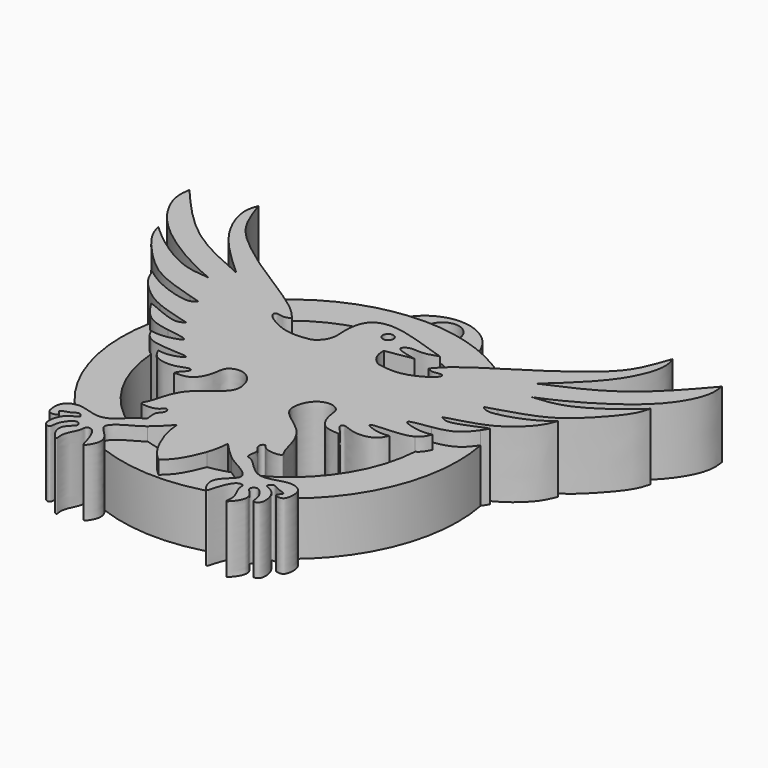
from build123d import *

# Parameters (mm, degrees)
F0_R     = 0.5
F1_DEPTH = 6.35
F2_DEPTH = 5.08
F0_R_2   = 1.5875
F3_DEPTH = 3.302


with BuildPart() as f1:
    # F0 (on Top) → F1 (new body)
    with BuildSketch(Plane.XY):
        with BuildLine():
            ThreePointArc((-2.2857759614, -12.6735372469), (-3.1434769531, -11.8683312788), (-3.3654761501, -10.7130287215))
            Line((-3.3654761501, -10.7130287215), (-0.8104138542, -10.283479467))
            add(Edge.make_bspline(
                [(0.437071285, -8.8088745251), (-0.0304486134, -8.9725956549), (-0.9338587692, -9.2889615077), (-2.1955246092, -9.0169819107), (-3.0587312339, -9.8238607214), (-1.691815012, -10.1032965008), (-0.8104138542, -10.283479467)],
                knots=[0, 0, 0, 0, 0.2683991506, 0.5186399966, 0.6896142883, 1, 1, 1, 1], degree=3))
            add(Edge.make_bspline(
                [(-7.6546338105, -10.7130287215), (-7.678919269, -10.3000748782), (-7.73034389, -9.4256423481), (-7.317687334, -7.6895897735), (-5.7206877323, -7.1193581807), (-3.5552078503, -7.4571101175), (-1.0412872964, -8.3083101998), (0.437071285, -8.8088745251)],
                knots=[0, 0, 0, 0, 0.159418547, 0.3375698413, 0.5060844369, 0.7095436011, 1, 1, 1, 1], degree=3))
            ThreePointArc((-7.6546338105, -10.7130287215), (-7.8766330075, -11.8683312788), (-8.7343339993, -12.6735372469))
            add(Edge.make_bspline(
                [(-8.7343339993, -12.6735372469), (-9.523806903, -12.8015469406), (-11.1190018081, -13.0602010506), (-13.7026507244, -11.5169474665), (-13.4301505365, -10.8678037859), (-12.6161443378, -11.1995299569), (-12.2039803521, -10.9779616436), (-12.0018484022, -10.8693009242)],
                knots=[0, 0, 0, 0, 0.2900366332, 0.5860428615, 0.690791346, 0.8483590262, 1, 1, 1, 1], degree=3))
            add(Edge.make_bspline(
                [(-12.0018484022, -10.8693009242), (-12.378793463, -10.4294114946), (-12.7557385238, -9.9895220649), (-13.4557536522, -9.4361696392)],
                knots=[0, 0, 0, 0, 0.1500645427, 0.1500645427, 0.1500645427, 0.1500645427], degree=3))
            add(Edge.make_bspline(
                [(-13.4557536522, -9.4361696392), (-14.1904575138, -8.8553962423), (-15.2810437796, -8.1496360768), (-16.3882084282, -7.4464541427)],
                knots=[0.1500645427, 0.1500645427, 0.1500645427, 0.1500645427, 0.3075654231, 0.3075654231, 0.3075654231, 0.3075654231], degree=3))
            add(Edge.make_bspline(
                [(-16.3882084282, -7.4464541427), (-17.077892257, -7.0084224469), (-19.2654638689, -5.6350365303), (-21.5789440731, -3.9350248583), (-24.1050318297, -1.7164703505), (-24.8613595922, 0.5278582132), (-25.2502131926, 1.6817431897)],
                knots=[0.3075654231, 0.3075654231, 0.3075654231, 0.3075654231, 0.4056771271, 0.6158848747, 0.8025134646, 1, 1, 1, 1], degree=3))
            add(Edge.make_bspline(
                [(-25.2502131926, 1.6817431897), (-25.3951067522, 1.280758379), (-25.7762631202, 0.2259294792), (-24.4048343462, -3.5815929315), (-21.4797801088, -6.2349320898), (-19.8152903186, -7.744803559)],
                knots=[0, 0, 0, 0, 0.2090437978, 0.5499097055, 1, 1, 1, 1], degree=3))
            add(Edge.make_bspline(
                [(-19.8152903186, -7.744803559), (-21.8933588466, -6.8484477058), (-26.1214371759, -5.0247047891), (-29.2812907107, -1.3563326534), (-30.8881001266, 0.5090623163)],
                knots=[0, 0, 0, 0, 0.4914924384, 1, 1, 1, 1], degree=3))
            add(Edge.make_bspline(
                [(-30.8881001266, 0.5090623163), (-30.9582758225, -0.011060264), (-31.1391395903, -1.3515717954), (-29.0066316357, -5.2234725146), (-23.6433019611, -8.5096249192), (-21.7021566887, -9.3308980701), (-20.9203157293, -9.6616847441)],
                knots=[0, 0, 0, 0, 0.1718152259, 0.4428192512, 0.7755826226, 1, 1, 1, 1], degree=3))
            add(Edge.make_bspline(
                [(-20.9203157293, -9.6616847441), (-21.8725033421, -9.5858744468), (-23.9432030209, -9.4210116025), (-27.4367987775, -6.9993841498), (-28.5230473459, -6.0104339662), (-28.9712184759, -5.6024068035)],
                knots=[0, 0, 0, 0, 0.3333619993, 0.7249543845, 1, 1, 1, 1], degree=3))
            add(Edge.make_bspline(
                [(-28.9712184759, -5.6024068035), (-28.854944572, -6.0433451161), (-28.5482463343, -7.2064178175), (-25.5894224246, -10.4657710421), (-23.4689854378, -11.774808669), (-21.2946618617, -12.4750234979), (-20.2032917813, -12.8044316157)],
                knots=[0, 0, 0, 0, 0.1774990931, 0.4681932683, 0.7070564422, 0.9264163461, 0.9264163461, 0.9264163461, 0.9264163461], degree=3))
            add(Edge.make_bspline(
                [(-20.2032917813, -12.8044316157), (-19.8371948015, -12.914930629), (-19.465417461, -13.0247772533), (-19.0936401205, -13.1346238777)],
                knots=[0.9264163461, 0.9264163461, 0.9264163461, 0.9264163461, 1, 1, 1, 1], degree=3))
            add(Edge.make_bspline(
                [(-19.0936401205, -13.1346238777), (-19.2767266143, -13.2974250771), (-19.5527899077, -13.5429015968), (-20.2207923001, -13.498321883), (-20.4722561106, -13.4584477894)],
                knots=[0, 0, 0, 0, 0.2141785411, 0.3229448128, 0.3229448128, 0.3229448128, 0.3229448128], degree=3))
            add(Edge.make_bspline(
                [(-20.4722561106, -13.4584477894), (-21.2064790204, -13.342023589), (-23.2531585306, -12.641976704), (-24.2924677427, -11.8884457299), (-24.8442850726, -11.4883612841)],
                knots=[0.3229448128, 0.3229448128, 0.3229448128, 0.3229448128, 0.6405200866, 1, 1, 1, 1], degree=3))
            add(Edge.make_bspline(
                [(-24.8442850726, -11.4883612841), (-24.6641466596, -11.9407389545), (-24.2425854891, -12.9993963344), (-22.5008813943, -14.5802847068), (-21.3766672087, -15.144950261), (-21.0535742526, -15.2834966503)],
                knots=[0, 0, 0, 0, 0.2103264926, 0.4922075251, 0.6062341379, 0.6062341379, 0.6062341379, 0.6062341379], degree=3))
            add(Edge.make_bspline(
                [(-21.0535742526, -15.2834966503), (-20.6399538048, -15.4608623853), (-19.5482951273, -15.8258074405), (-18.4587211621, -16.130537148), (-17.7808642511, -16.319426521)],
                knots=[0.6062341379, 0.6062341379, 0.6062341379, 0.6062341379, 0.7522098943, 0.992569197, 0.992569197, 0.992569197, 0.992569197], degree=3))
            add(Edge.make_bspline(
                [(-17.7808642511, -16.319426521), (-17.7599080362, -16.3252661108), (-17.7389518445, -16.3311050325), (-17.7179956527, -16.3369439542)],
                knots=[0.992569197, 0.992569197, 0.992569197, 0.992569197, 1, 1, 1, 1], degree=3))
            add(Edge.make_bspline(
                [(-17.7179956527, -16.3369439542), (-17.7448464273, -16.3569847976), (-17.7716972018, -16.377025641), (-17.7989335344, -16.39670501)],
                knots=[0, 0, 0, 0, 0.0360209732, 0.0360209732, 0.0360209732, 0.0360209732], degree=3))
            add(Edge.make_bspline(
                [(-17.7989335344, -16.39670501), (-17.9961329866, -16.5391897143), (-18.6076884656, -16.8866823644), (-20.5370613523, -15.9986742495), (-21.1616027185, -15.7365291878)],
                knots=[0.0360209732, 0.0360209732, 0.0360209732, 0.0360209732, 0.2968239348, 0.7696330417, 0.7696330417, 0.7696330417, 0.7696330417], degree=3))
            add(Edge.make_bspline(
                [(-21.1616027185, -15.7365291878), (-21.2325595307, -15.7067457677), (-21.5025934049, -15.5961906841), (-21.5942405015, -15.5814755039), (-21.6645169722, -15.5701916665)],
                knots=[0.7696330417, 0.7696330417, 0.7696330417, 0.7696330417, 0.8233509038, 1, 1, 1, 1], degree=3))
            add(Edge.make_bspline(
                [(-21.6645169722, -15.5701916665), (-21.5307460559, -15.781550535), (-21.3969751397, -15.9929094034), (-21.2574051259, -16.197568195)],
                knots=[0, 0, 0, 0, 0.0811491852, 0.0811491852, 0.0811491852, 0.0811491852], degree=3))
            add(Edge.make_bspline(
                [(-21.2574051259, -16.197568195), (-21.0903565591, -16.4425202224), (-20.5664062179, -17.1457404661), (-19.7005933386, -17.794862753), (-18.4278203745, -18.035521294), (-18.0699930633, -18.0942967463)],
                knots=[0.0811491852, 0.0811491852, 0.0811491852, 0.0811491852, 0.1782750271, 0.37135395, 0.4469510907, 0.4469510907, 0.4469510907, 0.4469510907], degree=3))
            add(Edge.make_bspline(
                [(-18.0699930633, -18.0942967463), (-17.3051094591, -18.2199338298), (-16.2475111106, -18.3373842463), (-16.0600153336, -18.7342471162), (-17.336818529, -19.0818313631), (-17.9973230472, -19.1069249957), (-18.1205621915, -19.1049129059)],
                knots=[0.4469510907, 0.4469510907, 0.4469510907, 0.4469510907, 0.6085458368, 0.6707768146, 0.8473068215, 0.8917611023, 0.8917611023, 0.8917611023, 0.8917611023], degree=3))
            add(Edge.make_bspline(
                [(-18.1205621915, -19.1049129059), (-18.4206293367, -19.1000137965), (-18.6635987428, -19.0532597025), (-18.9065681489, -19.0065056086)],
                knots=[0.8917611023, 0.8917611023, 0.8917611023, 0.8917611023, 1, 1, 1, 1], degree=3))
            add(Edge.make_bspline(
                [(-18.9065681489, -19.0065056086), (-18.7267973223, -19.3972528253), (-18.5470264958, -19.788000042), (-18.0945699953, -20.0480963886)],
                knots=[0, 0, 0, 0, 0.1881334538, 0.1881334538, 0.1881334538, 0.1881334538], degree=3))
            add(Edge.make_bspline(
                [(-18.0945699953, -20.0480963886), (-18.0295818868, -20.0854550509), (-17.1249172164, -20.5295411587), (-14.644944582, -20.4512885989), (-14.0852232538, -20.7349595785), (-15.391551368, -21.2976153213), (-16.1341709579, -21.204235051), (-16.5157229358, -21.1562570184)],
                knots=[0.1881334538, 0.1881334538, 0.1881334538, 0.1881334538, 0.2151558025, 0.5343286979, 0.6260254886, 0.8078549011, 1, 1, 1, 1], degree=3))
            add(Edge.make_bspline(
                [(-16.5157229358, -21.1562570184), (-16.3707933692, -21.4851799652), (-16.035296023, -22.2466034501), (-14.0628085338, -22.5561192091), (-12.83437652, -21.785508268), (-12.5342148918, -22.3008449601), (-13.3117713794, -22.9104627246), (-13.3332998325, -23.1547195494), (-13.3413218146, -23.245735094)],
                knots=[0, 0, 0, 0, 0.185946959, 0.4304484772, 0.6321402353, 0.7295307591, 0.8992171242, 1, 1, 1, 1], degree=3))
            add(Edge.make_bspline(
                [(-13.3413218146, -23.245735094), (-12.7817317833, -23.221719513), (-11.6391145201, -23.1726825112), (-10.9207680036, -21.4013685472), (-10.9502024782, -20.2244522086), (-9.7961964097, -19.7245897463), (-8.6197815564, -20.2311510164), (-8.0360034049, -21.4105320524), (-7.9687643162, -22.6915176065), (-9.2662759802, -23.726279067), (-10.7083172032, -24.7480185877), (-11.5534571901, -26.265971769), (-11.8637383139, -27.949468015), (-12.4298922722, -28.6176221137), (-11.4141566911, -28.7490024147), (-10.5349912392, -28.5490819312), (-10.2964419935, -28.0128222303), (-9.9322528984, -28.2045391332), (-9.9233884279, -28.768970853), (-10.5764993982, -29.1306793904), (-10.1466395686, -30.4521176981), (-10.6213197783, -30.3900197466), (-10.8998241443, -30.5733072486), (-10.9471807688, -30.6081848495)],
                knots=[0, 0, 0, 0, 0.0236094388, 0.0482077071, 0.0679629707, 0.0869600144, 0.1074089495, 0.1286108469, 0.1487863439, 0.1722404159, 0.1974049154, 0.2222443341, 0.2471732469, 0.2612787619, 0.2775857533, 0.2958693788, 0.3085771959, 0.3183624297, 0.3311744342, 0.3463925393, 0.3656586898, 0.3792655185, 0.3819449347, 0.3819449347, 0.3819449347, 0.3819449347], degree=3))
            add(Edge.make_bspline(
                [(-10.9471807688, -30.6081848495), (-11.4219596487, -30.95785395), (-12.6585880492, -32.5779503507), (-14.4386598565, -31.9746486666), (-15.2280025892, -31.7764376207), (-15.5099636958, -31.7661897237)],
                knots=[0.3819449347, 0.3819449347, 0.3819449347, 0.3819449347, 0.4088077072, 0.4347350851, 0.4498735847, 0.4498735847, 0.4498735847, 0.4498735847], degree=3))
            add(Edge.make_bspline(
                [(-15.5099636958, -31.7661897237), (-15.6182824946, -31.762252869), (-16.0812938557, -31.7853379311), (-16.9225442481, -32.2139544549), (-16.9364405644, -33.4145530365), (-16.6757448822, -34.1764938577), (-15.5611074288, -33.8991616611), (-16.5508193954, -33.2829982362), (-15.2657891733, -33.0919139581), (-14.8317825224, -32.5549985597), (-14.1236292767, -33.2648050052), (-15.5779052296, -33.385554528), (-16.0893119325, -35.6001299999), (-15.0395035977, -35.8825501242), (-15.2423088232, -34.9230641851), (-14.1481091617, -33.5340795776), (-13.5276273942, -34.3387647954), (-14.1404352433, -34.7200169984), (-14.8324358777, -35.7657245737), (-13.3527732567, -37.4097100905), (-13.8462453432, -36.0865404592), (-12.9242296365, -34.7793299215), (-13.0996239648, -34.1125499461), (-12.140006055, -34.0262863664), (-11.5429591559, -36.014067957), (-11.372600989, -36.7692739428), (-10.4234042113, -35.2654395059), (-10.9545225827, -34.5003144749), (-11.2149308367, -34.216840868)],
                knots=[0.4498735847, 0.4498735847, 0.4498735847, 0.4498735847, 0.455689224, 0.4750420423, 0.4949340879, 0.5105416302, 0.525719827, 0.5393619063, 0.5571394956, 0.5724150658, 0.585707918, 0.604584957, 0.6306002854, 0.6445619744, 0.6610471938, 0.6837547819, 0.6976027913, 0.7120402423, 0.7322528655, 0.7545088848, 0.770313615, 0.7944950806, 0.807984117, 0.8221383021, 0.8491797379, 0.8613023483, 0.8834735617, 0.8998932588, 0.8998932588, 0.8998932588, 0.8998932588], degree=3))
            add(Edge.make_bspline(
                [(-11.2149308367, -34.216840868), (-11.3333000107, -34.0879872844), (-11.7552776721, -33.6839061793), (-12.3157576791, -33.0556691665), (-10.9509936942, -32.0074263245), (-10.0543815647, -31.6174208495), (-9.5488695866, -31.2304972613), (-9.5008021164, -31.192382587)],
                knots=[0.8998932588, 0.8998932588, 0.8998932588, 0.8998932588, 0.9073568701, 0.9249921928, 0.9471020495, 0.9709672009, 0.9734664562, 0.9734664562, 0.9734664562, 0.9734664562], degree=3))
            add(Edge.make_bspline(
                [(-9.5008021164, -31.192382587), (-8.9904899888, -30.7877351101), (-8.4636466759, -30.2212735889), (-7.9368033631, -29.6548120677)],
                knots=[0.9734664562, 0.9734664562, 0.9734664562, 0.9734664562, 1, 1, 1, 1], degree=3))
            add(Edge.make_bspline(
                [(-7.9368033631, -29.6548120677), (-7.8923029904, -30.1408310724), (-7.8377457627, -30.7366878692), (-7.5912715802, -31.5266561258), (-7.5403781129, -31.6759556716)],
                knots=[0, 0, 0, 0, 0.3040677362, 0.3727854787, 0.3727854787, 0.3727854787, 0.3727854787], degree=3))
            add(Edge.make_bspline(
                [(-7.5403781129, -31.6759556716), (-7.2967189276, -32.3907469324), (-6.5936240616, -33.914277021), (-5.8592330439, -34.5814048009), (-5.5100549803, -34.8986014724)],
                knots=[0.3727854787, 0.3727854787, 0.3727854787, 0.3727854787, 0.7017807316, 1, 1, 1, 1], degree=3))
            add(Edge.make_bspline(
                [(-3.4797318477, -31.6759556716), (-3.723391033, -32.3907469324), (-4.426485899, -33.914277021), (-5.1608769167, -34.5814048009), (-5.5100549803, -34.8986014724)],
                knots=[0.3727854787, 0.3727854787, 0.3727854787, 0.3727854787, 0.7017807316, 1, 1, 1, 1], degree=3))
            add(Edge.make_bspline(
                [(-3.0833065975, -29.6548120677), (-3.1278069702, -30.1408310724), (-3.1823641979, -30.7366878692), (-3.4288383804, -31.5266561258), (-3.4797318477, -31.6759556716)],
                knots=[0, 0, 0, 0, 0.3040677362, 0.3727854787, 0.3727854787, 0.3727854787, 0.3727854787], degree=3))
            add(Edge.make_bspline(
                [(-1.5193078443, -31.192382587), (-2.0296199718, -30.7877351101), (-2.5564632847, -30.2212735889), (-3.0833065975, -29.6548120677)],
                knots=[0.9734664562, 0.9734664562, 0.9734664562, 0.9734664562, 1, 1, 1, 1], degree=3))
            add(Edge.make_bspline(
                [(0.1948208761, -34.216840868), (0.3131900501, -34.0879872844), (0.7351677115, -33.6839061793), (1.2956477185, -33.0556691665), (-0.0691162664, -32.0074263245), (-0.9657283959, -31.6174208495), (-1.471240374, -31.2304972613), (-1.5193078443, -31.192382587)],
                knots=[0.8998932588, 0.8998932588, 0.8998932588, 0.8998932588, 0.9073568701, 0.9249921928, 0.9471020495, 0.9709672009, 0.9734664562, 0.9734664562, 0.9734664562, 0.9734664562], degree=3))
            add(Edge.make_bspline(
                [(4.4898537351, -31.7661897237), (4.5981725339, -31.762252869), (5.0611838951, -31.7853379311), (5.9024342875, -32.2139544549), (5.9163306038, -33.4145530365), (5.6556349216, -34.1764938577), (4.5409974682, -33.8991616611), (5.5307094348, -33.2829982362), (4.2456792127, -33.0919139581), (3.8116725618, -32.5549985597), (3.1035193161, -33.2648050052), (4.557795269, -33.385554528), (5.0692019719, -35.6001299999), (4.0193936371, -35.8825501242), (4.2221988626, -34.9230641851), (3.1279992011, -33.5340795776), (2.5075174336, -34.3387647954), (3.1203252827, -34.7200169984), (3.8123259171, -35.7657245737), (2.3326632961, -37.4097100905), (2.8261353826, -36.0865404592), (1.9041196759, -34.7793299215), (2.0795140042, -34.1125499461), (1.1198960944, -34.0262863664), (0.5228491953, -36.014067957), (0.3524910284, -36.7692739428), (-0.5967057493, -35.2654395059), (-0.0655873779, -34.5003144749), (0.1948208761, -34.216840868)],
                knots=[0.4498735847, 0.4498735847, 0.4498735847, 0.4498735847, 0.455689224, 0.4750420423, 0.4949340879, 0.5105416302, 0.525719827, 0.5393619063, 0.5571394956, 0.5724150658, 0.585707918, 0.604584957, 0.6306002854, 0.6445619744, 0.6610471938, 0.6837547819, 0.6976027913, 0.7120402423, 0.7322528655, 0.7545088848, 0.770313615, 0.7944950806, 0.807984117, 0.8221383021, 0.8491797379, 0.8613023483, 0.8834735617, 0.8998932588, 0.8998932588, 0.8998932588, 0.8998932588], degree=3))
            add(Edge.make_bspline(
                [(-0.0729291918, -30.6081848495), (0.4018496881, -30.95785395), (1.6384780886, -32.5779503507), (3.4185498959, -31.9746486666), (4.2078926286, -31.7764376207), (4.4898537351, -31.7661897237)],
                knots=[0.3819449347, 0.3819449347, 0.3819449347, 0.3819449347, 0.4088077072, 0.4347350851, 0.4498735847, 0.4498735847, 0.4498735847, 0.4498735847], degree=3))
            add(Edge.make_bspline(
                [(2.321211854, -23.245735094), (1.7616218227, -23.221719513), (0.6190045595, -23.1726825112), (-0.099341957, -21.4013685472), (-0.0699074824, -20.2244522086), (-1.2239135509, -19.7245897463), (-2.4003284042, -20.2311510164), (-2.9841065557, -21.4105320524), (-3.0513456444, -22.6915176065), (-1.7538339805, -23.726279067), (-0.3117927574, -24.7480185877), (0.5333472295, -26.265971769), (0.8436283533, -27.949468015), (1.4097823116, -28.6176221137), (0.3940467305, -28.7490024147), (-0.4851187214, -28.5490819312), (-0.7236679671, -28.0128222303), (-1.0878570623, -28.2045391332), (-1.0967215327, -28.768970853), (-0.4436105624, -29.1306793904), (-0.873470392, -30.4521176981), (-0.3987901823, -30.3900197466), (-0.1202858163, -30.5733072486), (-0.0729291918, -30.6081848495)],
                knots=[0, 0, 0, 0, 0.0236094388, 0.0482077071, 0.0679629707, 0.0869600144, 0.1074089495, 0.1286108469, 0.1487863439, 0.1722404159, 0.1974049154, 0.2222443341, 0.2471732469, 0.2612787619, 0.2775857533, 0.2958693788, 0.3085771959, 0.3183624297, 0.3311744342, 0.3463925393, 0.3656586898, 0.3792655185, 0.3819449347, 0.3819449347, 0.3819449347, 0.3819449347], degree=3))
            add(Edge.make_bspline(
                [(5.4956129752, -21.1562570184), (5.3506834085, -21.4851799652), (5.0151860624, -22.2466034501), (3.0426985732, -22.5561192091), (1.8142665593, -21.785508268), (1.5141049312, -22.3008449601), (2.2916614187, -22.9104627246), (2.3131898719, -23.1547195494), (2.321211854, -23.245735094)],
                knots=[0, 0, 0, 0, 0.185946959, 0.4304484772, 0.6321402353, 0.7295307591, 0.8992171242, 1, 1, 1, 1], degree=3))
            add(Edge.make_bspline(
                [(7.0744600347, -20.0480963886), (7.0094719262, -20.0854550509), (6.1048072558, -20.5295411587), (3.6248346214, -20.4512885989), (3.0651132932, -20.7349595785), (4.3714414074, -21.2976153213), (5.1140609973, -21.204235051), (5.4956129752, -21.1562570184)],
                knots=[0.1881334538, 0.1881334538, 0.1881334538, 0.1881334538, 0.2151558025, 0.5343286979, 0.6260254886, 0.8078549011, 1, 1, 1, 1], degree=3))
            add(Edge.make_bspline(
                [(7.8864581883, -19.0065056086), (7.7066873617, -19.3972528253), (7.5269165352, -19.788000042), (7.0744600347, -20.0480963886)],
                knots=[0, 0, 0, 0, 0.1881334538, 0.1881334538, 0.1881334538, 0.1881334538], degree=3))
            add(Edge.make_bspline(
                [(7.1004522309, -19.1049129059), (7.4005193761, -19.1000137965), (7.6434887822, -19.0532597025), (7.8864581883, -19.0065056086)],
                knots=[0.8917611023, 0.8917611023, 0.8917611023, 0.8917611023, 1, 1, 1, 1], degree=3))
            add(Edge.make_bspline(
                [(7.0498831027, -18.0942967463), (6.2849994985, -18.2199338298), (5.22740115, -18.3373842463), (5.039905373, -18.7342471162), (6.3167085684, -19.0818313631), (6.9772130866, -19.1069249957), (7.1004522309, -19.1049129059)],
                knots=[0.4469510907, 0.4469510907, 0.4469510907, 0.4469510907, 0.6085458368, 0.6707768146, 0.8473068215, 0.8917611023, 0.8917611023, 0.8917611023, 0.8917611023], degree=3))
            add(Edge.make_bspline(
                [(10.2372951653, -16.197568195), (10.0702465985, -16.4425202224), (9.5462962573, -17.1457404661), (8.680483378, -17.794862753), (7.4077104139, -18.035521294), (7.0498831027, -18.0942967463)],
                knots=[0.0811491852, 0.0811491852, 0.0811491852, 0.0811491852, 0.1782750271, 0.37135395, 0.4469510907, 0.4469510907, 0.4469510907, 0.4469510907], degree=3))
            add(Edge.make_bspline(
                [(10.6444070116, -15.5701916665), (10.5106360953, -15.781550535), (10.3768651791, -15.9929094034), (10.2372951653, -16.197568195)],
                knots=[0, 0, 0, 0, 0.0811491852, 0.0811491852, 0.0811491852, 0.0811491852], degree=3))
            add(Edge.make_bspline(
                [(10.1414927579, -15.7365291878), (10.21244957, -15.7067457677), (10.4824834443, -15.5961906841), (10.5741305409, -15.5814755039), (10.6444070116, -15.5701916665)],
                knots=[0.7696330417, 0.7696330417, 0.7696330417, 0.7696330417, 0.8233509038, 1, 1, 1, 1], degree=3))
            add(Edge.make_bspline(
                [(6.7788235738, -16.39670501), (6.976023026, -16.5391897143), (7.587578505, -16.8866823644), (9.5169513917, -15.9986742495), (10.1414927579, -15.7365291878)],
                knots=[0.0360209732, 0.0360209732, 0.0360209732, 0.0360209732, 0.2968239348, 0.7696330417, 0.7696330417, 0.7696330417, 0.7696330417], degree=3))
            add(Edge.make_bspline(
                [(6.6978856921, -16.3369439542), (6.7247364667, -16.3569847976), (6.7515872412, -16.377025641), (6.7788235738, -16.39670501)],
                knots=[0, 0, 0, 0, 0.0360209732, 0.0360209732, 0.0360209732, 0.0360209732], degree=3))
            add(Edge.make_bspline(
                [(6.7607542905, -16.319426521), (6.7397980756, -16.3252661108), (6.7188418839, -16.3311050325), (6.6978856921, -16.3369439542)],
                knots=[0.992569197, 0.992569197, 0.992569197, 0.992569197, 1, 1, 1, 1], degree=3))
            add(Edge.make_bspline(
                [(10.033464292, -15.2834966503), (9.6198438441, -15.4608623853), (8.5281851667, -15.8258074405), (7.4386112015, -16.130537148), (6.7607542905, -16.319426521)],
                knots=[0.6062341379, 0.6062341379, 0.6062341379, 0.6062341379, 0.7522098943, 0.992569197, 0.992569197, 0.992569197, 0.992569197], degree=3))
            add(Edge.make_bspline(
                [(13.8241751119, -11.4883612841), (13.644036699, -11.9407389545), (13.2224755285, -12.9993963344), (11.4807714337, -14.5802847068), (10.3565572481, -15.144950261), (10.033464292, -15.2834966503)],
                knots=[0, 0, 0, 0, 0.2103264926, 0.4922075251, 0.6062341379, 0.6062341379, 0.6062341379, 0.6062341379], degree=3))
            add(Edge.make_bspline(
                [(9.45214615, -13.4584477894), (10.1863690598, -13.342023589), (12.23304857, -12.641976704), (13.2723577821, -11.8884457299), (13.8241751119, -11.4883612841)],
                knots=[0.3229448128, 0.3229448128, 0.3229448128, 0.3229448128, 0.6405200866, 1, 1, 1, 1], degree=3))
            add(Edge.make_bspline(
                [(8.0735301599, -13.1346238777), (8.2566166536, -13.2974250771), (8.5326799471, -13.5429015968), (9.2006823395, -13.498321883), (9.45214615, -13.4584477894)],
                knots=[0, 0, 0, 0, 0.2141785411, 0.3229448128, 0.3229448128, 0.3229448128, 0.3229448128], degree=3))
            add(Edge.make_bspline(
                [(9.1831818206, -12.8044316157), (8.8170848409, -12.914930629), (8.4453075004, -13.0247772533), (8.0735301599, -13.1346238777)],
                knots=[0.9264163461, 0.9264163461, 0.9264163461, 0.9264163461, 1, 1, 1, 1], degree=3))
            add(Edge.make_bspline(
                [(17.9511085153, -5.6024068035), (17.8348346114, -6.0433451161), (17.5281363737, -7.2064178175), (14.569312464, -10.4657710421), (12.4488754772, -11.774808669), (10.2745519011, -12.4750234979), (9.1831818206, -12.8044316157)],
                knots=[0, 0, 0, 0, 0.1774990931, 0.4681932683, 0.7070564422, 0.9264163461, 0.9264163461, 0.9264163461, 0.9264163461], degree=3))
            add(Edge.make_bspline(
                [(9.9002057686, -9.6616847441), (10.8523933815, -9.5858744468), (12.9230930603, -9.4210116025), (16.4166888169, -6.9993841498), (17.5029373853, -6.0104339662), (17.9511085153, -5.6024068035)],
                knots=[0, 0, 0, 0, 0.3333619993, 0.7249543845, 1, 1, 1, 1], degree=3))
            add(Edge.make_bspline(
                [(19.8679901659, 0.5090623163), (19.9381658619, -0.011060264), (20.1190296297, -1.3515717954), (17.9865216751, -5.2234725146), (12.6231920004, -8.5096249192), (10.6820467281, -9.3308980701), (9.9002057686, -9.6616847441)],
                knots=[0, 0, 0, 0, 0.1718152259, 0.4428192512, 0.7755826226, 1, 1, 1, 1], degree=3))
            add(Edge.make_bspline(
                [(8.795180358, -7.744803559), (10.873248886, -6.8484477058), (15.1013272153, -5.0247047891), (18.2611807501, -1.3563326534), (19.8679901659, 0.5090623163)],
                knots=[0, 0, 0, 0, 0.4914924384, 1, 1, 1, 1], degree=3))
            add(Edge.make_bspline(
                [(14.230103232, 1.6817431897), (14.3749967916, 1.280758379), (14.7561531596, 0.2259294792), (13.3847243856, -3.5815929315), (10.4596701482, -6.2349320898), (8.795180358, -7.744803559)],
                knots=[0, 0, 0, 0, 0.2090437978, 0.5499097055, 1, 1, 1, 1], degree=3))
            add(Edge.make_bspline(
                [(5.3680984676, -7.4464541427), (6.0577822964, -7.0084224469), (8.2453539083, -5.6350365303), (10.5588341125, -3.9350248583), (13.0849218691, -1.7164703505), (13.8412496316, 0.5278582132), (14.230103232, 1.6817431897)],
                knots=[0.3075654231, 0.3075654231, 0.3075654231, 0.3075654231, 0.4056771271, 0.6158848747, 0.8025134646, 1, 1, 1, 1], degree=3))
            add(Edge.make_bspline(
                [(2.4356436916, -9.4361696392), (3.1703475532, -8.8553962423), (4.260933819, -8.1496360768), (5.3680984676, -7.4464541427)],
                knots=[0.1500645427, 0.1500645427, 0.1500645427, 0.1500645427, 0.3075654231, 0.3075654231, 0.3075654231, 0.3075654231], degree=3))
            add(Edge.make_bspline(
                [(0.9817384416, -10.8693009242), (1.3586835024, -10.4294114946), (1.7356285632, -9.9895220649), (2.4356436916, -9.4361696392)],
                knots=[0, 0, 0, 0, 0.1500645427, 0.1500645427, 0.1500645427, 0.1500645427], degree=3))
            add(Edge.make_bspline(
                [(-2.2857759614, -12.6735372469), (-1.4963030576, -12.8015469406), (0.0988918475, -13.0602010506), (2.6825407638, -11.5169474665), (2.4100405759, -10.8678037859), (1.5960343772, -11.1995299569), (1.1838703915, -10.9779616436), (0.9817384416, -10.8693009242)],
                knots=[0, 0, 0, 0, 0.2900366332, 0.5860428615, 0.690791346, 0.8483590262, 1, 1, 1, 1], degree=3))
        make_face()
        with Locations((-4.5117270201, -8.7848948315)):
            Circle(F0_R, mode=Mode.SUBTRACT)
    extrude(amount=F1_DEPTH)

    # F0 (on Top) → F2 (join)
    with BuildSketch(Plane.XY):
        with BuildLine():
            ThreePointArc((-13.4557536522, -9.4361696392), (-5.5100549803, -6.6182220763), (2.4356436916, -9.4361696392))
            add(Edge.make_bspline(
                [(2.4356436916, -9.4361696392), (3.1703475532, -8.8553962423), (4.260933819, -8.1496360768), (5.3680984676, -7.4464541427)],
                knots=[0.1500645427, 0.1500645427, 0.1500645427, 0.1500645427, 0.3075654231, 0.3075654231, 0.3075654231, 0.3075654231], degree=3))
            ThreePointArc((5.3680984676, -7.4464541427), (2.2866058164, -5.2156792405), (-1.2336339985, -3.7735054406))
            ThreePointArc((-1.2336339985, -3.7735054406), (-5.5100549803, -3.1928006392), (-9.7864759621, -3.7735054406))
            ThreePointArc((-9.7864759621, -3.7735054406), (-13.306715777, -5.2156792405), (-16.3882084282, -7.4464541427))
            add(Edge.make_bspline(
                [(-13.4557536522, -9.4361696392), (-14.1904575138, -8.8553962423), (-15.2810437796, -8.1496360768), (-16.3882084282, -7.4464541427)],
                knots=[0.1500645427, 0.1500645427, 0.1500645427, 0.1500645427, 0.3075654231, 0.3075654231, 0.3075654231, 0.3075654231], degree=3))
        make_face()
        with BuildLine():
            add(Edge.make_bspline(
                [(-21.2574051259, -16.197568195), (-21.0903565591, -16.4425202224), (-20.5664062179, -17.1457404661), (-19.7005933386, -17.794862753), (-18.4278203745, -18.035521294), (-18.0699930633, -18.0942967463)],
                knots=[0.0811491852, 0.0811491852, 0.0811491852, 0.0811491852, 0.1782750271, 0.37135395, 0.4469510907, 0.4469510907, 0.4469510907, 0.4469510907], degree=3))
            ThreePointArc((-21.2574051259, -16.197568195), (-20.5541843599, -24.78315872), (-15.5099636958, -31.7661897237))
            add(Edge.make_bspline(
                [(-10.9471807688, -30.6081848495), (-11.4219596487, -30.95785395), (-12.6585880492, -32.5779503507), (-14.4386598565, -31.9746486666), (-15.2280025892, -31.7764376207), (-15.5099636958, -31.7661897237)],
                knots=[0.3819449347, 0.3819449347, 0.3819449347, 0.3819449347, 0.4088077072, 0.4347350851, 0.4498735847, 0.4498735847, 0.4498735847, 0.4498735847], degree=3))
            ThreePointArc((-10.9471807688, -30.6081848495), (-15.9538929429, -26.2980505126), (-18.0945699953, -20.0480963886))
            add(Edge.make_bspline(
                [(-18.9065681489, -19.0065056086), (-18.7267973223, -19.3972528253), (-18.5470264958, -19.788000042), (-18.0945699953, -20.0480963886)],
                knots=[0, 0, 0, 0, 0.1881334538, 0.1881334538, 0.1881334538, 0.1881334538], degree=3))
            add(Edge.make_bspline(
                [(-18.1205621915, -19.1049129059), (-18.4206293367, -19.1000137965), (-18.6635987428, -19.0532597025), (-18.9065681489, -19.0065056086)],
                knots=[0.8917611023, 0.8917611023, 0.8917611023, 0.8917611023, 1, 1, 1, 1], degree=3))
            ThreePointArc((-18.1205621915, -19.1049129059), (-18.1054178306, -18.5990974315), (-18.0699930633, -18.0942967463))
        make_face()
        with BuildLine():
            add(Edge.make_bspline(
                [(-21.0535742526, -15.2834966503), (-20.6399538048, -15.4608623853), (-19.5482951273, -15.8258074405), (-18.4587211621, -16.130537148), (-17.7808642511, -16.319426521)],
                knots=[0.6062341379, 0.6062341379, 0.6062341379, 0.6062341379, 0.7522098943, 0.992569197, 0.992569197, 0.992569197, 0.992569197], degree=3))
            ThreePointArc((-21.0535742526, -15.2834966503), (-21.109233198, -15.509620727), (-21.1616027185, -15.7365291878))
            add(Edge.make_bspline(
                [(-17.7989335344, -16.39670501), (-17.9961329866, -16.5391897143), (-18.6076884656, -16.8866823644), (-20.5370613523, -15.9986742495), (-21.1616027185, -15.7365291878)],
                knots=[0.0360209732, 0.0360209732, 0.0360209732, 0.0360209732, 0.2968239348, 0.7696330417, 0.7696330417, 0.7696330417, 0.7696330417], degree=3))
            ThreePointArc((-17.7989335344, -16.39670501), (-17.7899596829, -16.3580515515), (-17.7808642511, -16.319426521))
        make_face()
        with BuildLine():
            add(Edge.make_bspline(
                [(-20.2032917813, -12.8044316157), (-19.8371948015, -12.914930629), (-19.465417461, -13.0247772533), (-19.0936401205, -13.1346238777)],
                knots=[0.9264163461, 0.9264163461, 0.9264163461, 0.9264163461, 1, 1, 1, 1], degree=3))
            ThreePointArc((-20.2032917813, -12.8044316157), (-20.341379399, -13.129956959), (-20.4722561106, -13.4584477894))
            add(Edge.make_bspline(
                [(-19.0936401205, -13.1346238777), (-19.2767266143, -13.2974250771), (-19.5527899077, -13.5429015968), (-20.2207923001, -13.498321883), (-20.4722561106, -13.4584477894)],
                knots=[0, 0, 0, 0, 0.2141785411, 0.3229448128, 0.3229448128, 0.3229448128, 0.3229448128], degree=3))
        make_face()
        with BuildLine():
            ThreePointArc((9.45214615, -13.4584477894), (9.3212694384, -13.129956959), (9.1831818206, -12.8044316157))
            add(Edge.make_bspline(
                [(9.1831818206, -12.8044316157), (8.8170848409, -12.914930629), (8.4453075004, -13.0247772533), (8.0735301599, -13.1346238777)],
                knots=[0.9264163461, 0.9264163461, 0.9264163461, 0.9264163461, 1, 1, 1, 1], degree=3))
            add(Edge.make_bspline(
                [(8.0735301599, -13.1346238777), (8.2566166536, -13.2974250771), (8.5326799471, -13.5429015968), (9.2006823395, -13.498321883), (9.45214615, -13.4584477894)],
                knots=[0, 0, 0, 0, 0.2141785411, 0.3229448128, 0.3229448128, 0.3229448128, 0.3229448128], degree=3))
        make_face()
        with BuildLine():
            ThreePointArc((10.1414927579, -15.7365291878), (10.0891232374, -15.509620727), (10.033464292, -15.2834966503))
            add(Edge.make_bspline(
                [(10.033464292, -15.2834966503), (9.6198438441, -15.4608623853), (8.5281851667, -15.8258074405), (7.4386112015, -16.130537148), (6.7607542905, -16.319426521)],
                knots=[0.6062341379, 0.6062341379, 0.6062341379, 0.6062341379, 0.7522098943, 0.992569197, 0.992569197, 0.992569197, 0.992569197], degree=3))
            ThreePointArc((6.7607542905, -16.319426521), (6.7698497223, -16.3580515515), (6.7788235738, -16.39670501))
            add(Edge.make_bspline(
                [(6.7788235738, -16.39670501), (6.976023026, -16.5391897143), (7.587578505, -16.8866823644), (9.5169513917, -15.9986742495), (10.1414927579, -15.7365291878)],
                knots=[0.0360209732, 0.0360209732, 0.0360209732, 0.0360209732, 0.2968239348, 0.7696330417, 0.7696330417, 0.7696330417, 0.7696330417], degree=3))
        make_face()
        with BuildLine():
            ThreePointArc((4.4898537351, -31.7661897237), (9.5340743993, -24.78315872), (10.2372951653, -16.197568195))
            add(Edge.make_bspline(
                [(10.2372951653, -16.197568195), (10.0702465985, -16.4425202224), (9.5462962573, -17.1457404661), (8.680483378, -17.794862753), (7.4077104139, -18.035521294), (7.0498831027, -18.0942967463)],
                knots=[0.0811491852, 0.0811491852, 0.0811491852, 0.0811491852, 0.1782750271, 0.37135395, 0.4469510907, 0.4469510907, 0.4469510907, 0.4469510907], degree=3))
            ThreePointArc((7.0498831027, -18.0942967463), (7.08530787, -18.5990974315), (7.1004522309, -19.1049129059))
            add(Edge.make_bspline(
                [(7.1004522309, -19.1049129059), (7.4005193761, -19.1000137965), (7.6434887822, -19.0532597025), (7.8864581883, -19.0065056086)],
                knots=[0.8917611023, 0.8917611023, 0.8917611023, 0.8917611023, 1, 1, 1, 1], degree=3))
            add(Edge.make_bspline(
                [(7.8864581883, -19.0065056086), (7.7066873617, -19.3972528253), (7.5269165352, -19.788000042), (7.0744600347, -20.0480963886)],
                knots=[0, 0, 0, 0, 0.1881334538, 0.1881334538, 0.1881334538, 0.1881334538], degree=3))
            ThreePointArc((7.0744600347, -20.0480963886), (4.9337829823, -26.2980505126), (-0.0729291918, -30.6081848495))
            add(Edge.make_bspline(
                [(-0.0729291918, -30.6081848495), (0.4018496881, -30.95785395), (1.6384780886, -32.5779503507), (3.4185498959, -31.9746486666), (4.2078926286, -31.7764376207), (4.4898537351, -31.7661897237)],
                knots=[0.3819449347, 0.3819449347, 0.3819449347, 0.3819449347, 0.4088077072, 0.4347350851, 0.4498735847, 0.4498735847, 0.4498735847, 0.4498735847], degree=3))
        make_face()
        with BuildLine():
            ThreePointArc((-11.2149308367, -34.216840868), (-5.5100549803, -35.2658856828), (0.1948208761, -34.216840868))
            add(Edge.make_bspline(
                [(0.1948208761, -34.216840868), (0.3131900501, -34.0879872844), (0.7351677115, -33.6839061793), (1.2956477185, -33.0556691665), (-0.0691162664, -32.0074263245), (-0.9657283959, -31.6174208495), (-1.471240374, -31.2304972613), (-1.5193078443, -31.192382587)],
                knots=[0.8998932588, 0.8998932588, 0.8998932588, 0.8998932588, 0.9073568701, 0.9249921928, 0.9471020495, 0.9709672009, 0.9734664562, 0.9734664562, 0.9734664562, 0.9734664562], degree=3))
            ThreePointArc((-1.5193078443, -31.192382587), (-2.4898260938, -31.473467976), (-3.4797318477, -31.6759556716))
            add(Edge.make_bspline(
                [(-3.4797318477, -31.6759556716), (-3.723391033, -32.3907469324), (-4.426485899, -33.914277021), (-5.1608769167, -34.5814048009), (-5.5100549803, -34.8986014724)],
                knots=[0.3727854787, 0.3727854787, 0.3727854787, 0.3727854787, 0.7017807316, 1, 1, 1, 1], degree=3))
            add(Edge.make_bspline(
                [(-7.5403781129, -31.6759556716), (-7.2967189276, -32.3907469324), (-6.5936240616, -33.914277021), (-5.8592330439, -34.5814048009), (-5.5100549803, -34.8986014724)],
                knots=[0.3727854787, 0.3727854787, 0.3727854787, 0.3727854787, 0.7017807316, 1, 1, 1, 1], degree=3))
            ThreePointArc((-7.5403781129, -31.6759556716), (-8.5302838668, -31.473467976), (-9.5008021164, -31.192382587))
            add(Edge.make_bspline(
                [(-11.2149308367, -34.216840868), (-11.3333000107, -34.0879872844), (-11.7552776721, -33.6839061793), (-12.3157576791, -33.0556691665), (-10.9509936942, -32.0074263245), (-10.0543815647, -31.6174208495), (-9.5488695866, -31.2304972613), (-9.5008021164, -31.192382587)],
                knots=[0.8998932588, 0.8998932588, 0.8998932588, 0.8998932588, 0.9073568701, 0.9249921928, 0.9471020495, 0.9709672009, 0.9734664562, 0.9734664562, 0.9734664562, 0.9734664562], degree=3))
        make_face()
    extrude(amount=F2_DEPTH)

    # F0 (on Top) → F3 (join)
    with BuildSketch(Plane.XY):
        with BuildLine():
            ThreePointArc((-9.7864759621, -3.7735054406), (-5.5100549803, -3.1928006392), (-1.2336339985, -3.7735054406))
            ThreePointArc((-1.2336339985, -3.7735054406), (-5.5100549803, 1.1228678466), (-9.7864759621, -3.7735054406))
        make_face()
        with Locations((-5.5100549803, -1.0771384696)):
            Circle(F0_R_2, mode=Mode.SUBTRACT)
    extrude(amount=F3_DEPTH)


solid = f1.part
